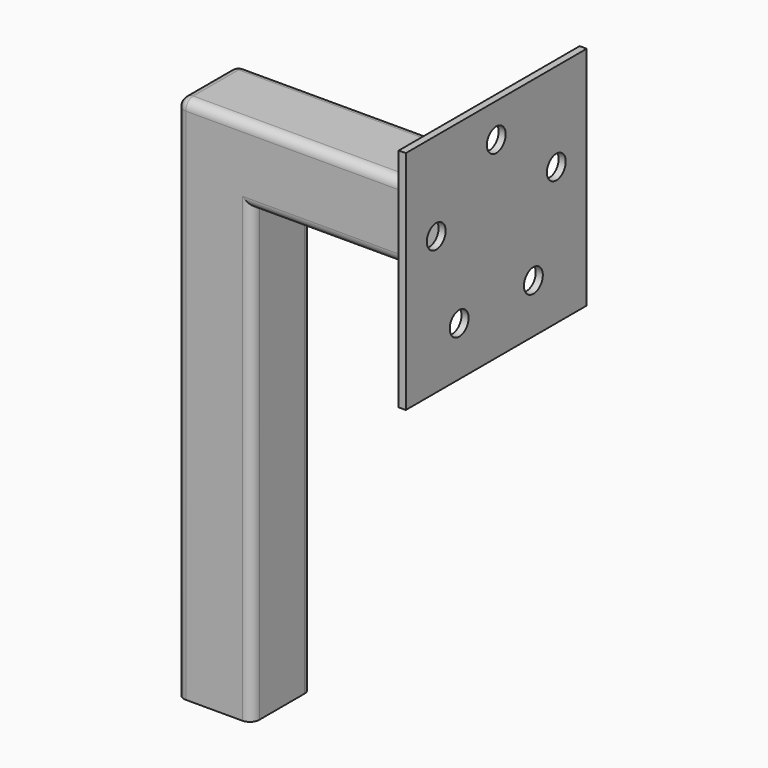
from build123d import *

# Parameters (mm, degrees)
F1_DEPTH = 25.4
F2_DEPTH = 76.2
F4_R     = 7.9375
F5_DEPTH = 12.7
F6_R     = 6.35
F7_R     = 6.35


with BuildPart() as f1:
    # F0 (on Front) → F1 (new body, symmetric)
    with BuildSketch(Plane.XZ):
        Polygon((26.5287997477, 235.5093256942), (-24.2712002523, 286.3093256942), (-24.2712002523, 235.5093256942), (-24.2712002523, -69.2906743058), (26.5287997477, -69.2906743058), align=None)
        Polygon((26.5287997477, 286.3093256942), (-24.2712002523, 286.3093256942), (26.5287997477, 235.5093256942), (166.2287997477, 235.5093256942), (166.2287997477, 286.3093256942), align=None)
    extrude(amount=F1_DEPTH, both=True)

    # F0 (on Front) → F2 (join, symmetric)
    with BuildSketch(Plane.XZ):
        Polygon((166.2287997477, 337.1093256942), (166.2287997477, 286.3093256942), (166.2287997477, 235.5093256942), (166.2287997477, 184.7093256942), (170.9912997477, 184.7093256942), (170.9912997477, 337.1093256942), align=None)
    extrude(amount=F2_DEPTH, both=True)

    # F4 (on offset) → F5 (cut, symmetric)
    with BuildSketch(Plane.YZ.offset(170.9912997477)):
        with Locations((0, 314.0905756942)):
            Circle(F4_R)
        with Locations((-50.5783743572, 277.3432357263)):
            Circle(F4_R)
        with Locations((-31.2591544485, 217.8847906621)):
            Circle(F4_R)
        with Locations((31.2591544485, 217.8847906621)):
            Circle(F4_R)
        with Locations((50.5783743572, 277.3432357263)):
            Circle(F4_R)
    extrude(amount=F5_DEPTH, both=True, mode=Mode.SUBTRACT)

    # F6
    f6_edges = [f1.edges().sort_by_distance(p)[0] for p in [
        (70.9788, -25.4, 286.309326),
        (70.9788, 25.4, 286.309326),
        (-24.2712, 0, 286.309326),
        (-24.2712, -25.4, 108.509326),
        (26.5288, -25.4, 83.109326),
        (26.5288, 25.4, 83.109326),
        (-24.2712, 25.4, 108.509326),
    ]]
    fillet(f6_edges, radius=F6_R)

    # F7
    f7_edges = [f1.edges().sort_by_distance(p)[0] for p in [
        (96.3788, -25.4, 235.509326),
        (96.3788, 25.4, 235.509326),
    ]]
    fillet(f7_edges, radius=F7_R)


solid = f1.part
